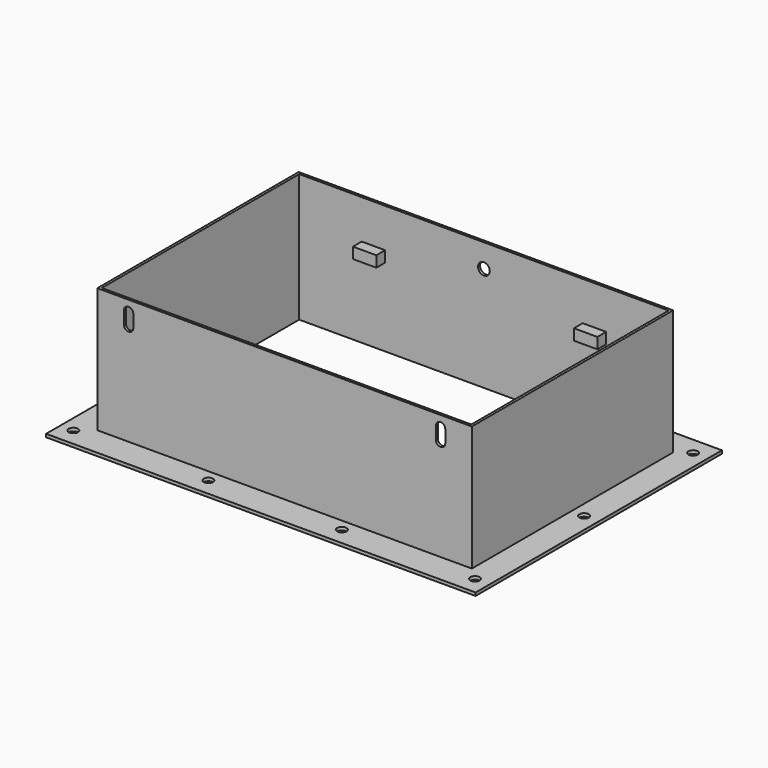
from build123d import *

# Parameters (mm, degrees)
F0_W      = 348.996
F0_H      = 247.65
F0_R      = 3.81
F0_W_2    = 300.228
F0_H_2    = 200.406
F1_DEPTH  = 2.54
F2_W      = 304.292
F2_H      = 204.47
F2_W_2    = 300.228
F2_H_2    = 200.406
F3_DEPTH  = 101.6
F5_DEPTH  = 25.4
F6_W      = 19.05
F6_H      = 8.89
F7_DEPTH  = 8.89
F8_DEPTH  = 2.54
F10_D     = 9.525
F10_DEPTH = 12.7
F10_TIP   = 2.8615986981


with BuildPart() as f1:
    # F0 (on Top) → F1 (new body)
    with BuildSketch(Plane.XY):
        Rectangle(F0_W, F0_H)
        with Locations((-163.83, -112.014)):
            Circle(F0_R, mode=Mode.SUBTRACT)
        with Locations((-54.102, -112.014)):
            Circle(F0_R, mode=Mode.SUBTRACT)
        with Locations((-163.83, -1.27)):
            Circle(F0_R, mode=Mode.SUBTRACT)
        with Locations((54.356, -112.014)):
            Circle(F0_R, mode=Mode.SUBTRACT)
        with Locations((162.56, -112.014)):
            Circle(F0_R, mode=Mode.SUBTRACT)
        with Locations((162.56, -1.27)):
            Circle(F0_R, mode=Mode.SUBTRACT)
        with Locations((-163.83, 109.474)):
            Circle(F0_R, mode=Mode.SUBTRACT)
        with Locations((-54.102, 109.474)):
            Circle(F0_R, mode=Mode.SUBTRACT)
        Rectangle(F0_W_2, F0_H_2, mode=Mode.SUBTRACT)
        with Locations((54.356, 109.474)):
            Circle(F0_R, mode=Mode.SUBTRACT)
        with Locations((162.56, 109.474)):
            Circle(F0_R, mode=Mode.SUBTRACT)
    extrude(amount=F1_DEPTH)

    # F2 (on face) → F3 (join)
    with BuildSketch(Plane.XY.offset(2.54)):
        Rectangle(F2_W, F2_H)
        Rectangle(F2_W_2, F2_H_2, mode=Mode.SUBTRACT)
    extrude(amount=F3_DEPTH)

    # F4 (on face) → F5 (cut)
    with BuildSketch(Plane.XZ.offset(102.235)):
        with BuildLine():
            Line((122.936, 95.25), (122.936, 85.09))
            ThreePointArc((122.936, 85.09), (126.746, 81.28), (130.556, 85.09))
            Line((130.556, 85.09), (130.556, 95.25))
            ThreePointArc((130.556, 95.25), (126.746, 99.06), (122.936, 95.25))
        make_face()
        with BuildLine():
            Line((-130.556, 95.25), (-130.556, 85.09))
            ThreePointArc((-130.556, 85.09), (-126.746, 81.28), (-122.936, 85.09))
            Line((-122.936, 85.09), (-122.936, 95.25))
            ThreePointArc((-122.936, 95.25), (-126.746, 99.06), (-130.556, 95.25))
        make_face()
    extrude(amount=-F5_DEPTH, mode=Mode.SUBTRACT)

    # F6 (on face) → F7 (join)
    with BuildSketch(Plane.XZ.offset(-100.203)):
        with Locations((-89.789, 67.945)):
            Rectangle(F6_W, F6_H)
        with Locations((89.789, 67.945)):
            Rectangle(F6_W, F6_H)
    extrude(amount=F7_DEPTH)

    # F8 (add): a face of the model
    f8_faces = [f1.faces().sort_by_distance(p)[0] for p in [
        (0, -123.825, 1.27),
    ]]
    extrude(f8_faces, amount=F8_DEPTH)

    # F10
    with Locations(Plane(origin=(0, 102.235, 0), x_dir=(-1, 0, 0), z_dir=(0, 1, 0))):
        with Locations((0, 85.09)):
            Hole(F10_D / 2, depth=F10_DEPTH)
            with Locations((0, 0, -(F10_DEPTH + F10_TIP / 2))):  # 118° drill point
                Cone(0, F10_D / 2, F10_TIP, mode=Mode.SUBTRACT)


solid = f1.part
